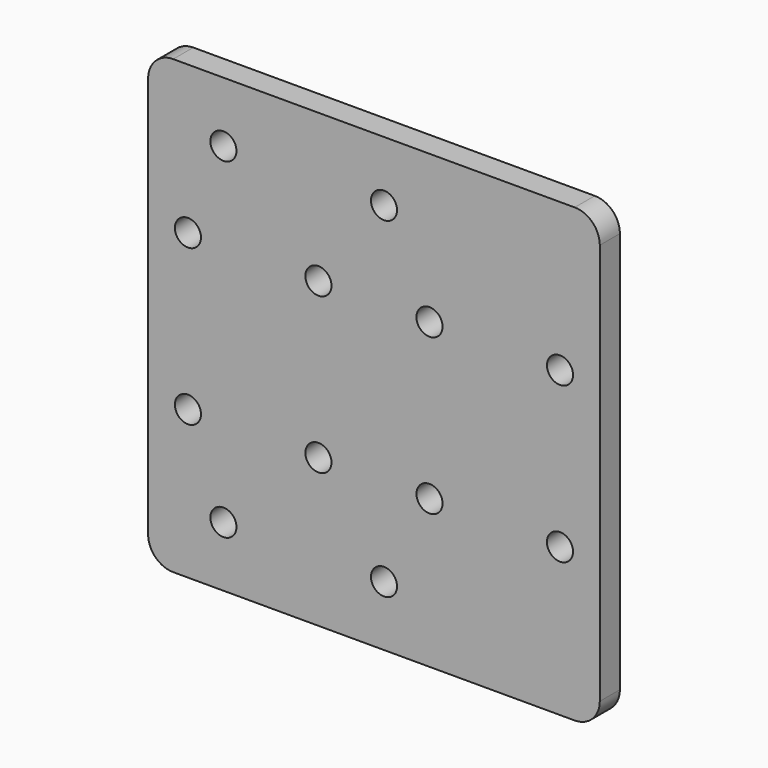
from build123d import *

# Parameters (mm, degrees)
F0_W     = 90
F0_H     = 90
F1_DEPTH = 5
F3_D     = 5.2
F5_D     = 5.2
F6_R     = 5


with BuildPart() as f1:
    # F0 (on Front) → F1 (new body)
    with BuildSketch(Plane.XZ):
        Rectangle(F0_W, F0_H)
    extrude(amount=F1_DEPTH)

    # F3 (through all)
    with Locations(Plane.XZ.offset(5)):
        with Locations((-37.066457, 15.5), (-11.066457, 15.5), (11.066457, 15.5), (37.066457, 15.5), (37.066457, -15.5), (11.066457, -15.5), (-11.066457, -15.5), (-37.066457, -15.5)):
            Hole(F3_D / 2)

    # F5 (through all)
    with Locations(Plane.XZ.offset(5)):
        with Locations((-30, 33), (2, 33), (2, -33), (-30, -33)):
            Hole(F5_D / 2)

    # F6
    f6_edges = [f1.edges().sort_by_distance(p)[0] for p in [
        (-45, -2.5, 45),
        (-45, -2.5, -45),
        (45, -2.5, 45),
        (45, -2.5, -45),
    ]]
    fillet(f6_edges, radius=F6_R)


solid = f1.part
